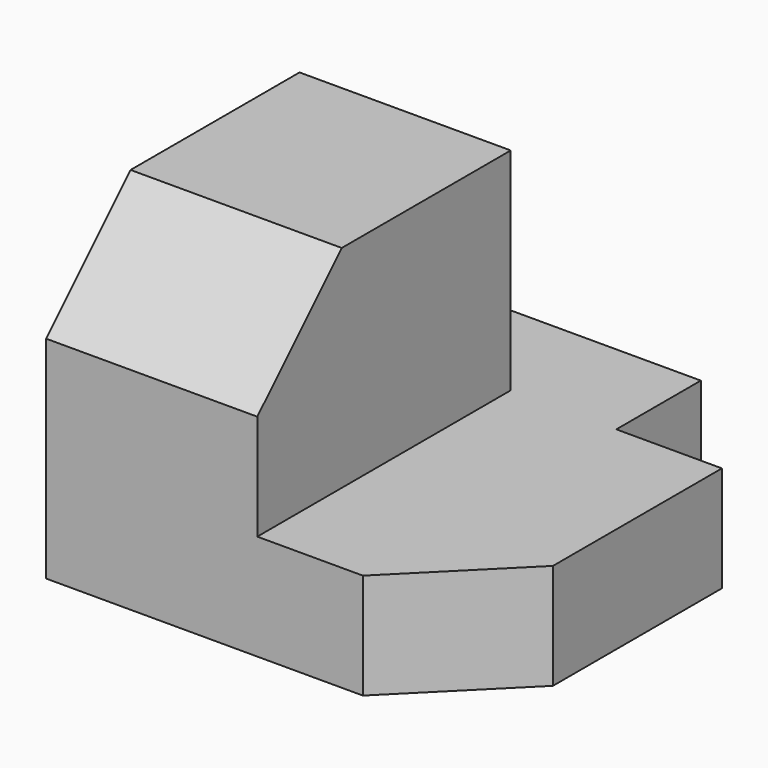
from build123d import *

# Parameters (mm, degrees)
F0_W     = 20
F0_H     = 30
F0_W_2   = 10
F1_DEPTH = 10
F2_DEPTH = 20
F3_SIZE2 = 10
F3_SIZE  = 10
F4_SIZE2 = 10
F4_SIZE  = 10


with BuildPart() as f1:
    # F0 (on Top) → F1 (new body)
    with BuildSketch(Plane.XY):
        with Locations((10, 15)):
            Rectangle(F0_W, F0_H)
        Polygon((20, 30), (20, 0), (30, 0), (30, 30), (30, 40), (0, 40), (0, 30), align=None)
        with Locations((35, 15)):
            Rectangle(F0_W_2, F0_H)
    extrude(amount=-F1_DEPTH)

    # F0 (on Top) → F2 (join)
    with BuildSketch(Plane.XY):
        with Locations((10, 15)):
            Rectangle(F0_W, F0_H)
    extrude(amount=F2_DEPTH)

    # F3
    f3_edges = [f1.edges().sort_by_distance(p)[0] for p in [
        (10, 0, 20),
    ]]
    chamfer(f3_edges, length=F3_SIZE, length2=F3_SIZE2)

    # F4
    f4_edges = [f1.edges().sort_by_distance(p)[0] for p in [
        (40, 0, -5),
    ]]
    chamfer(f4_edges, length=F4_SIZE, length2=F4_SIZE2)


solid = f1.part
